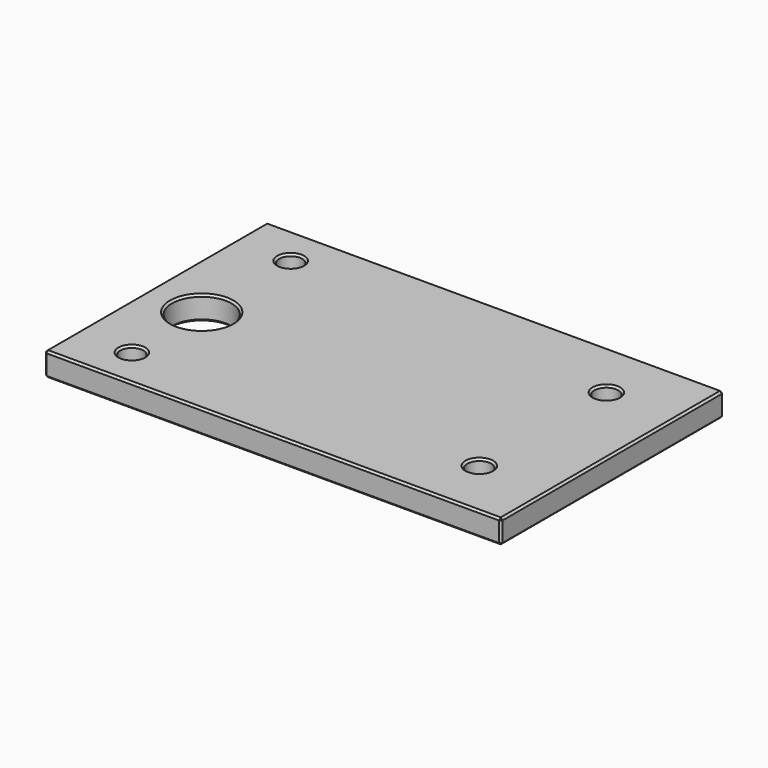
from build123d import *

# Parameters (mm, degrees)
F0_W     = 115
F0_H     = 70
F1_DEPTH = 6
F3_D     = 15
F3_DEPTH = 20
F4_D     = 5.8
F4_DEPTH = 20
F5_D     = 6
F5_DEPTH = 20
F6_SIZE  = 0.5


with BuildPart() as f1:
    # F0 (on Top) → F1 (new body)
    with BuildSketch(Plane.XY):
        Rectangle(F0_W, F0_H)
    extrude(amount=F1_DEPTH)

    # F3
    with Locations(Plane.XY.offset(6)):
        with Locations((-43.5, -3)):
            Hole(F3_D / 2, depth=F3_DEPTH)

    # F4
    with Locations(Plane.XY.offset(6)):
        with Locations((-43.5, 25), (-43.5, -25)):
            Hole(F4_D / 2, depth=F4_DEPTH)

    # F5
    with Locations(Plane.XY.offset(6)):
        with Locations((40, 20), (40, -20)):
            Hole(F5_D / 2, depth=F5_DEPTH)

    # F6
    f6_edges = [f1.edges().sort_by_distance(p)[0] for p in [
        (0, -35, 0),
        (-57.5, 0, 0),
        (57.5, 0, 0),
        (0, 35, 0),
        (-46.4, -25, 0),
        (-51, -3, 0),
        (37, -20, 0),
        (-46.4, 25, 0),
        (37, 20, 0),
        (0, -35, 6),
        (-57.5, 0, 6),
        (57.5, 0, 6),
        (0, 35, 6),
        (-46.4, -25, 6),
        (-51, -3, 6),
        (37, -20, 6),
        (-46.4, 25, 6),
        (37, 20, 6),
        (57.5, 35, 3),
        (57.5, -35, 3),
        (-57.5, -35, 3),
        (-57.5, 35, 3),
    ]]
    chamfer(f6_edges, length=F6_SIZE)


solid = f1.part
